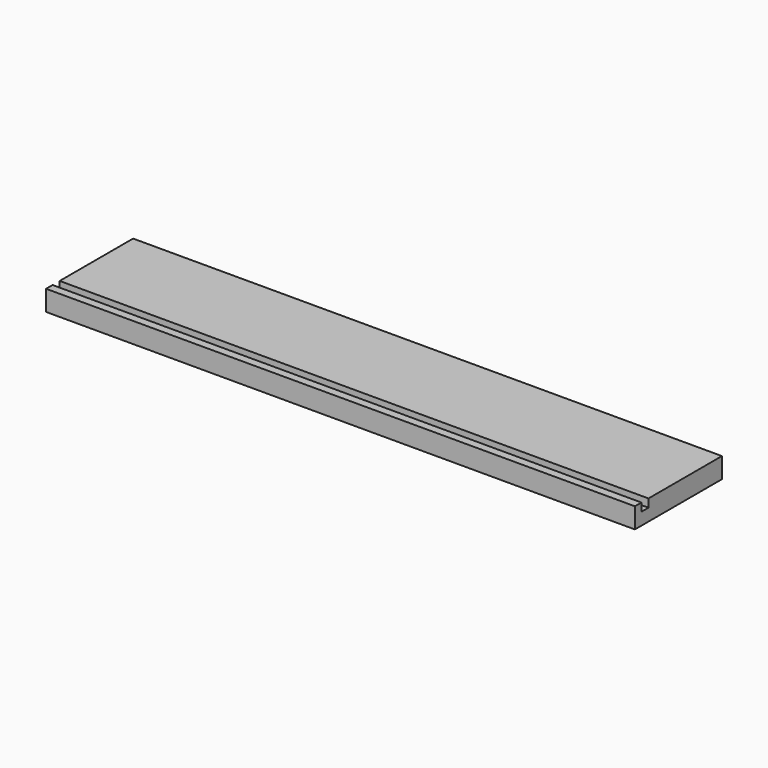
from build123d import *

# Parameters (mm, degrees)
SKETCH_W          = 433
SKETCH_H          = 80
PAD_DEPTH         = 15
SKETCH001_W       = 6.5
SKETCH001_H       = 6
POCKET_DEPTH      = 216.501
POCKET_DEPTH_BACK = -216.501


with BuildPart() as part:
    # Sketch → Pad (new body)
    with BuildSketch(Plane.XY):
        Rectangle(SKETCH_W, SKETCH_H)
    extrude(amount=PAD_DEPTH)

    # Sketch001 → Pocket (cut, two sides)
    with BuildSketch(Plane.YZ) as pocket_sk:
        with Locations((-30.75, 12)):
            Rectangle(SKETCH001_W, SKETCH001_H)
    extrude(amount=-POCKET_DEPTH, mode=Mode.SUBTRACT)
    extrude(pocket_sk.sketch, amount=-POCKET_DEPTH_BACK, mode=Mode.SUBTRACT)


solid = part.part
